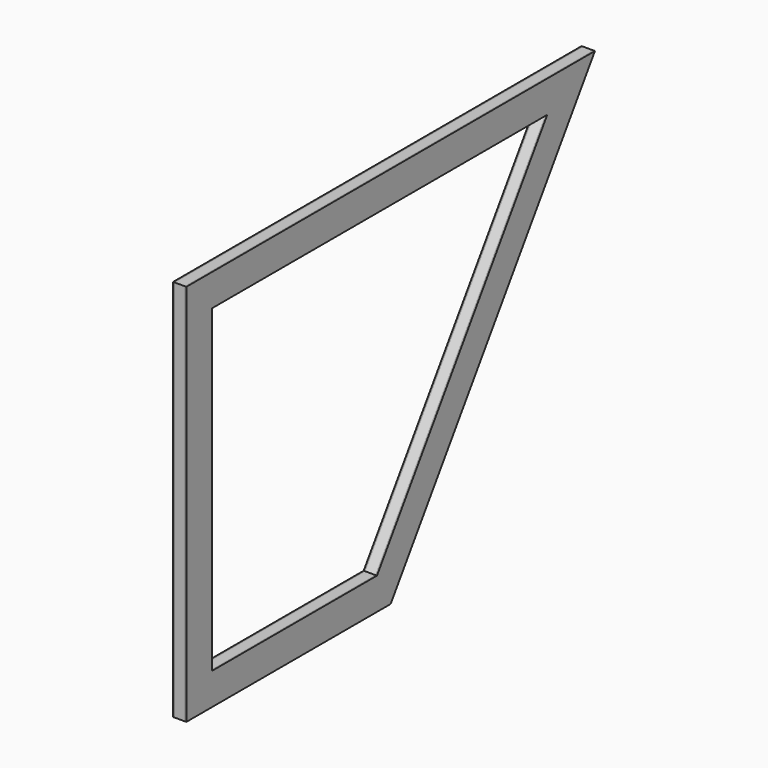
from build123d import *

# Parameters (mm, degrees)
F1_DEPTH = 3.175
F3_DEPTH = 25.4
F5_DEPTH = 3.175


with BuildPart() as f1:
    # F0 (on Right) → F1 (new body)
    with BuildSketch(Plane.YZ):
        Polygon((0, 914.4), (0, 0), (609.6, 0), (1219.2, 914.4), align=None)
        Polygon((76.2, 76.2), (76.2, 838.2), (1076.818998, 838.2), (568.818998, 76.2), align=None, mode=Mode.SUBTRACT)
    extrude(amount=F1_DEPTH)


with BuildPart() as f3:
    # F2 (on face) → F3 (new body)
    with BuildSketch(Plane.YZ.offset(3.175)):
        Polygon((1219.2, 914.4), (0, 914.4), (0, 0), (609.6, 0), align=None)
        Polygon((76.2, 76.2), (76.2, 838.2), (1076.818998, 838.2), (568.818998, 76.2), align=None, mode=Mode.SUBTRACT)
    extrude(amount=F3_DEPTH)


with BuildPart() as f5:
    # F4 (on face) → F5 (new body)
    with BuildSketch(Plane.YZ.offset(28.575)):
        Polygon((1219.2, 914.4), (0, 914.4), (0, 0), (609.6, 0), align=None)
        Polygon((76.2, 76.2), (76.2, 838.2), (1076.818998, 838.2), (568.818998, 76.2), align=None, mode=Mode.SUBTRACT)
    extrude(amount=F5_DEPTH)


solid = Compound([f1.part, f3.part, f5.part])
